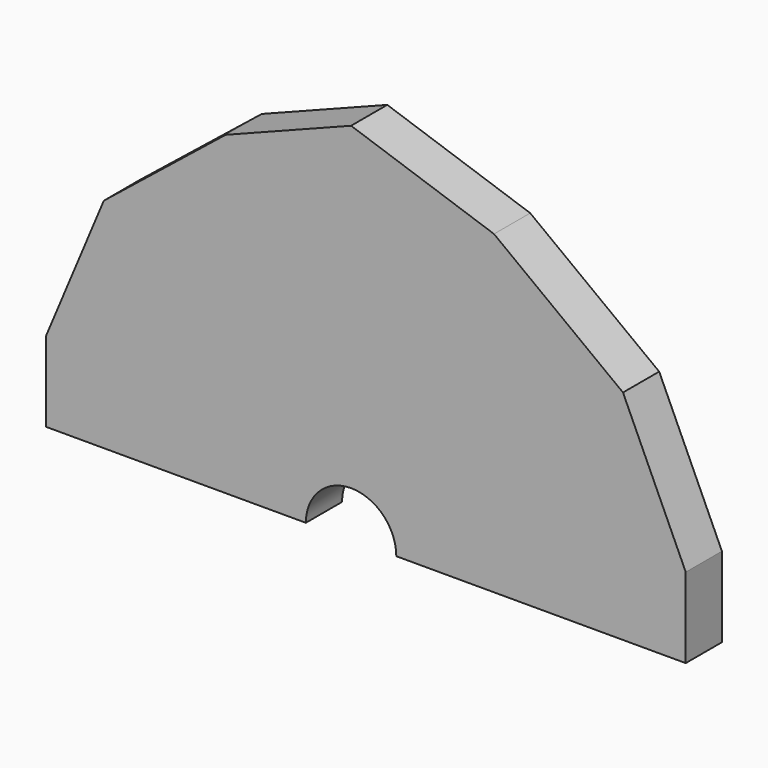
from build123d import *

# Parameters (mm, degrees)
F1_DEPTH = 6.35
F3_D     = 12.7


with BuildPart() as f1:
    # F0 (on Front) → F1 (new body)
    with BuildSketch(Plane.XZ):
        Polygon((20.06367, 44.286881), (0, 51.137887), (0, 0), align=None)
        Polygon((0, 0), (0, 51.137887), (-17.616881, 44.286881), align=None)
        Polygon((20.06367, 44.286881), (0, 0), (38.169909, 30.584864), align=None)
        Polygon((38.169909, 30.584864), (0, 0), (46.978351, 11.25523), align=None)
        Polygon((46.978351, 11.25523), (0, 0), (46.978351, 0), align=None)
        Polygon((-34.716997, 30.584864), (0, 0), (-17.616881, 44.286881), align=None)
        Polygon((-42.818807, 11.25523), (0, 0), (-34.716997, 30.584864), align=None)
        Polygon((-42.818807, 0), (0, 0), (-42.818807, 11.25523), align=None)
    extrude(amount=F1_DEPTH)

    # F3 (through all)
    with Locations(Plane(origin=(0, 0, 0), x_dir=(1, 0, 0), z_dir=(0, 1, 0))):
        with Locations((0, 0)):
            Hole(F3_D / 2)


solid = f1.part
